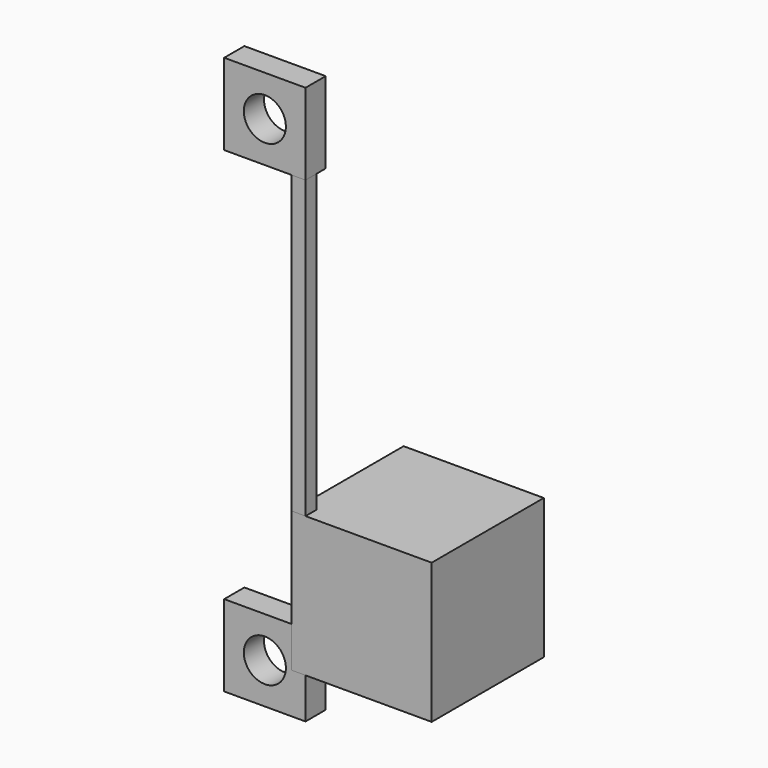
from build123d import *

# Parameters (mm, degrees)
BOX_W             = 1
BOX_H             = 1
BOX_DEPTH         = 34
CYLINDER_R        = 1.5
CYLINDER_DEPTH    = 1.8
BOX001_W          = 5.8
BOX001_H          = 1.8
BOX001_DEPTH      = 5.8
CYLINDER001_R     = 1.5
CYLINDER001_DEPTH = 1.8
BOX002_W          = 5.8
BOX002_H          = 1.8
BOX002_DEPTH      = 5.8
BOX003_W          = 10
BOX003_H          = 10
BOX003_DEPTH      = 10


with BuildPart() as cube:
    # Box → Box (new body)
    with BuildSketch(Plane.XY):
        with Locations((0.5, 0.5)):
            Rectangle(BOX_W, BOX_H)
    extrude(amount=BOX_DEPTH)


with BuildPart() as cylinder:
    # Cylinder → Cylinder (new body)
    with BuildSketch(Plane(origin=(0, 0, 0), x_dir=(1, 0, 0), z_dir=(0, 1, 0))):
        Circle(CYLINDER_R)
    extrude(amount=CYLINDER_DEPTH)


with BuildPart() as cut001:
    # Box001 → Box001 (new body)
    with BuildSketch(Plane(origin=(-2.9, 0, -2.9), x_dir=(1, 0, 0), z_dir=(0, 0, 1))):
        with Locations((2.9, 0.9)):
            Rectangle(BOX001_W, BOX001_H)
    extrude(amount=BOX001_DEPTH)

    # Cut001: cut Cylinder
    add(cylinder.part, mode=Mode.SUBTRACT)


with BuildPart() as cylinder001:
    # Cylinder001 → Cylinder001 (new body)
    with BuildSketch(Plane(origin=(0, 0, 34), x_dir=(1, 0, 0), z_dir=(0, 1, 0))):
        Circle(CYLINDER001_R)
    extrude(amount=CYLINDER001_DEPTH)


with BuildPart() as fusion:
    # Box002 → Box002 (new body)
    with BuildSketch(Plane(origin=(-2.9, 0, 31.1), x_dir=(1, 0, 0), z_dir=(0, 0, 1))):
        with Locations((2.9, 0.9)):
            Rectangle(BOX002_W, BOX002_H)
    extrude(amount=BOX002_DEPTH)

    # Cut: cut Cylinder001
    add(cylinder001.part, mode=Mode.SUBTRACT)

    # Fusion: union Cut001
    add(cut001.part)


with BuildPart() as fusion_1:
    # Fusion placement: moved
    add(fusion.part.moved(Location((-1.9, 0, 0))))


with BuildPart() as cube003:
    # Box003 → Box003 (new body)
    with BuildSketch(Plane.XY):
        with Locations((5, 5)):
            Rectangle(BOX003_W, BOX003_H)
    extrude(amount=BOX003_DEPTH)


solid = Compound([cube.part, fusion_1.part, cube003.part])
